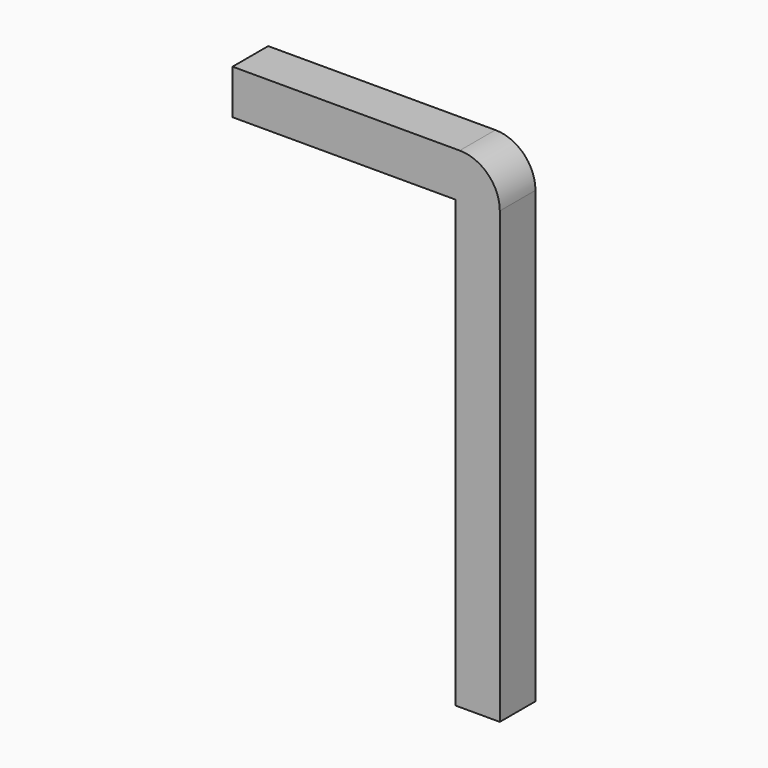
from build123d import *

# Parameters (mm, degrees)
BOX020_W     = 3
BOX020_H     = 0.5
BOX020_DEPTH = 0.5
BOX013_W     = 0.5
BOX013_H     = 0.5
BOX013_DEPTH = 5.5
FILLET009_R  = 0.45


with BuildPart() as kub020:
    # Box020 → Box020 (new body)
    with BuildSketch(Plane(origin=(-2.75, -7.87, 2), x_dir=(1, 0, 0), z_dir=(0, 0, 1))):
        with Locations((1.5, 0.25)):
            Rectangle(BOX020_W, BOX020_H)
    extrude(amount=BOX020_DEPTH)


with BuildPart() as fillet009:
    # Box013 → Box013 (new body)
    with BuildSketch(Plane(origin=(-0.25, -7.87, -3), x_dir=(1, 0, 0), z_dir=(0, 0, 1))):
        with Locations((0.25, 0.25)):
            Rectangle(BOX013_W, BOX013_H)
    extrude(amount=BOX013_DEPTH)

    # Fusion003: union Kub020
    add(kub020.part)

    # Fillet009
    fillet009_edges = [fillet009.edges().sort_by_distance(p)[0] for p in [
        (0.25, -7.62, 2.5),
    ]]
    fillet(fillet009_edges, radius=FILLET009_R)


solid = fillet009.part
